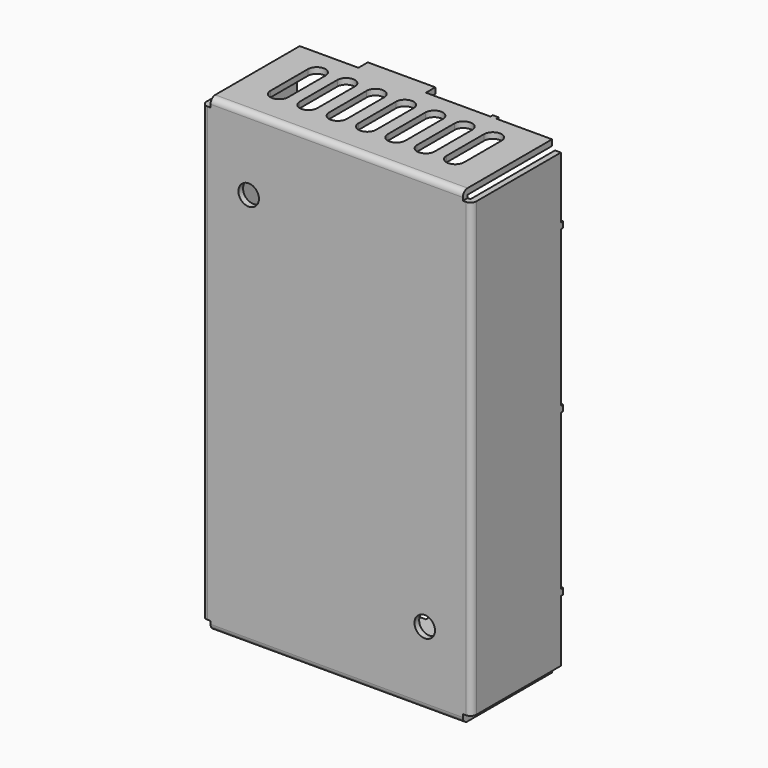
from build123d import *

# Parameters (mm, degrees)
F0_W      = 46
F0_H      = 80
F1_DEPTH  = 1
F2_W      = 43
F2_H      = 1
F2_W_2    = 1
F2_H_2    = 77
F3_DEPTH  = 18
F4_W      = 1.5
F4_H      = 1.5
F5_DEPTH  = 1.001
F6_R      = 1.75
F7_DEPTH  = 19.001
F9_DEPTH  = 80.001
F10_W     = 11.5
F10_H     = 1
F11_DEPTH = 2
F12_W     = 1
F12_H     = 1
F13_DEPTH = 0.5
F14_R     = 1


with BuildPart() as f1:
    # F0 (on Front) → F1 (new body)
    with BuildSketch(Plane.XZ):
        Rectangle(F0_W, F0_H)
    extrude(amount=-F1_DEPTH)

    # F2 (on face) → F3 (join)
    with BuildSketch(Plane(origin=(0, 1, 0), x_dir=(-1, 0, 0), z_dir=(0, 1, 0))):
        with Locations((0, 39.5)):
            Rectangle(F2_W, F2_H)
        with Locations((-22.5, 0)):
            Rectangle(F2_W_2, F2_H_2)
        with Locations((22.5, 0)):
            Rectangle(F2_W_2, F2_H_2)
        with Locations((0, -39.5)):
            Rectangle(F2_W, F2_H)
    extrude(amount=F3_DEPTH)

    # F4 (on face) → F5 (cut, through all)
    with BuildSketch(Plane(origin=(0, 1, 0), x_dir=(-1, 0, 0), z_dir=(0, 1, 0))):
        with Locations((22.25, 39.25)):
            Rectangle(F4_W, F4_H)
        with Locations((-22.25, 39.25)):
            Rectangle(F4_W, F4_H)
        with Locations((22.25, -39.25)):
            Rectangle(F4_W, F4_H)
        with Locations((-22.25, -39.25)):
            Rectangle(F4_W, F4_H)
    extrude(amount=-F5_DEPTH, mode=Mode.SUBTRACT)

    # F6 (on face) → F7 (cut, through all)
    with BuildSketch(Plane.XZ):
        with Locations((15, -27.5)):
            Circle(F6_R)
        with Locations((-15, 27.5)):
            Circle(F6_R)
    extrude(amount=-F7_DEPTH, mode=Mode.SUBTRACT)

    # F8 (on face) → F9 (cut, through all)
    with BuildSketch(Plane.XY.offset(40)):
        with BuildLine():
            ThreePointArc((-1.5, 6.5), (0, 5), (1.5, 6.5))
            Line((1.5, 6.5), (1.5, 14.5))
            ThreePointArc((1.5, 14.5), (0, 16), (-1.5, 14.5))
            Line((-1.5, 14.5), (-1.5, 6.5))
        make_face()
        with BuildLine():
            ThreePointArc((-6.5, 6.5), (-5, 5), (-3.5, 6.5))
            Line((-3.5, 6.5), (-3.5, 14.5))
            ThreePointArc((-3.5, 14.5), (-5, 16), (-6.5, 14.5))
            Line((-6.5, 14.5), (-6.5, 6.5))
        make_face()
        with BuildLine():
            ThreePointArc((-11.5, 6.5), (-10, 5), (-8.5, 6.5))
            Line((-8.5, 6.5), (-8.5, 14.5))
            ThreePointArc((-8.5, 14.5), (-10, 16), (-11.5, 14.5))
            Line((-11.5, 14.5), (-11.5, 6.5))
        make_face()
        with BuildLine():
            ThreePointArc((-16.5, 6.5), (-15, 5), (-13.5, 6.5))
            Line((-13.5, 6.5), (-13.5, 14.5))
            ThreePointArc((-13.5, 14.5), (-15, 16), (-16.5, 14.5))
            Line((-16.5, 14.5), (-16.5, 6.5))
        make_face()
        with BuildLine():
            ThreePointArc((8.5, 6.5), (10, 5), (11.5, 6.5))
            Line((11.5, 6.5), (11.5, 14.5))
            ThreePointArc((11.5, 14.5), (10, 16), (8.5, 14.5))
            Line((8.5, 14.5), (8.5, 6.5))
        make_face()
        with BuildLine():
            ThreePointArc((3.5, 6.5), (5, 5), (6.5, 6.5))
            Line((6.5, 6.5), (6.5, 14.5))
            ThreePointArc((6.5, 14.5), (5, 16), (3.5, 14.5))
            Line((3.5, 14.5), (3.5, 6.5))
        make_face()
        with BuildLine():
            ThreePointArc((13.5, 6.5), (15, 5), (16.5, 6.5))
            Line((16.5, 6.5), (16.5, 14.5))
            ThreePointArc((16.5, 14.5), (15, 16), (13.5, 14.5))
            Line((13.5, 14.5), (13.5, 6.5))
        make_face()
    extrude(amount=-F9_DEPTH, mode=Mode.SUBTRACT)

    # F10 (on face) → F11 (join)
    with BuildSketch(Plane(origin=(0, 19, 0), x_dir=(-1, 0, 0), z_dir=(0, 1, 0))):
        with Locations((-5.75, -39.5)):
            Rectangle(F10_W, F10_H)
        with Locations((5.75, 39.5)):
            Rectangle(F10_W, F10_H)
    extrude(amount=F11_DEPTH)

    # F12 (on face) → F13 (join)
    with BuildSketch(Plane(origin=(0, 19, 0), x_dir=(-1, 0, 0), z_dir=(0, 1, 0))):
        with Locations((11.5, -39.5)):
            Rectangle(F12_W, F12_H)
        with Locations((-11.5, 39.5)):
            Rectangle(F12_W, F12_H)
        with Locations((22.5, 27.5)):
            Rectangle(F12_W, F12_H)
        with Locations((-22.5, 27.5)):
            Rectangle(F12_W, F12_H)
        with Locations((22.5, -27.5)):
            Rectangle(F12_W, F12_H)
        with Locations((-22.5, -27.5)):
            Rectangle(F12_W, F12_H)
        with Locations((22.5, 0)):
            Rectangle(F12_W, F12_H)
        with Locations((-22.5, 0)):
            Rectangle(F12_W, F12_H)
    extrude(amount=F13_DEPTH)

    # F14
    f14_edges = [f1.edges().sort_by_distance(p)[0] for p in [
        (-23, 0, 0),
        (0, 0, 40),
        (23, 0, 0),
        (0, 0, -40),
    ]]
    fillet(f14_edges, radius=F14_R)


solid = f1.part
